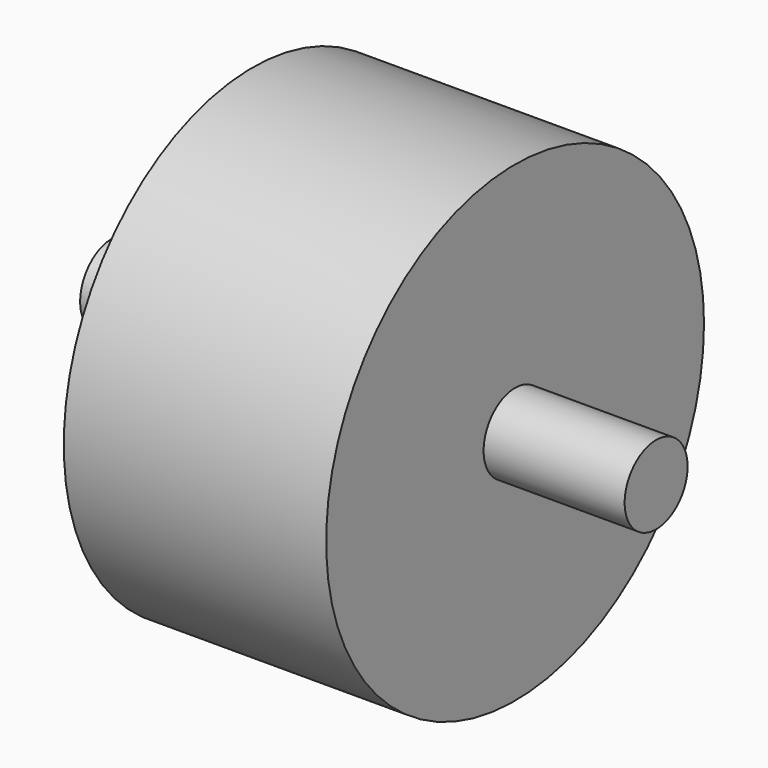
from build123d import *

# Parameters (mm, degrees)
F0_R     = 19.05
F1_DEPTH = 131.7625
F2_R     = 114.3
F3_DEPTH = 63.5


with BuildPart() as f1:
    # F0 (on Right) → F1 (new body, symmetric)
    with BuildSketch(Plane.YZ):
        Circle(F0_R)
    extrude(amount=F1_DEPTH, both=True)

    # F2 (on Right) → F3 (join, symmetric)
    with BuildSketch(Plane.YZ):
        Circle(F2_R)
    extrude(amount=F3_DEPTH, both=True)


solid = f1.part
